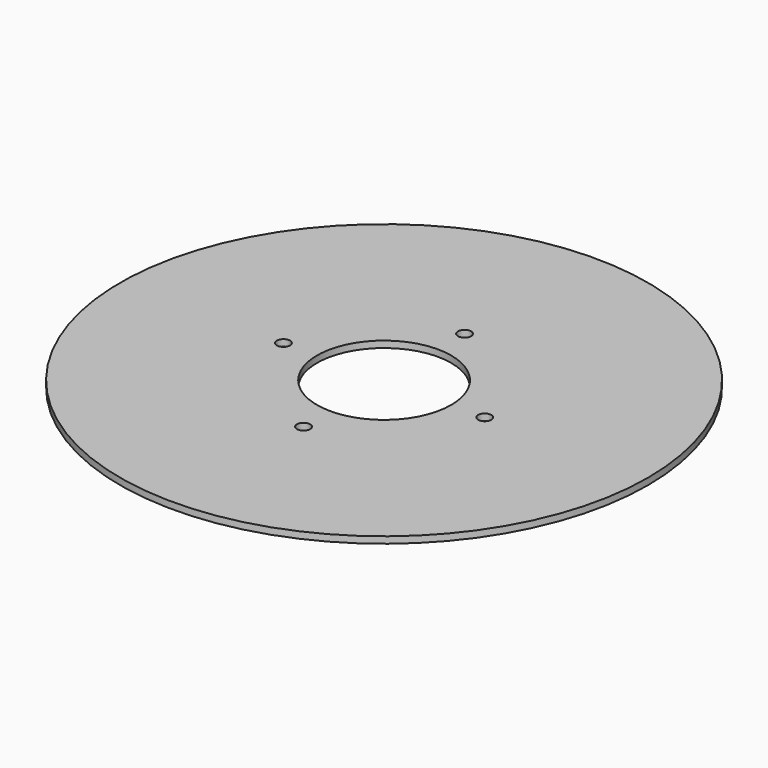
from build123d import *

# Parameters (mm, degrees)
SKETCH_R           = 120
SKETCH_R_2         = 30.5
PAD_DEPTH          = 3
SKETCH001_R        = 3
POCKET_DEPTH       = 681.850026
POLARPATTERN_COUNT = 4


with BuildPart() as part:
    # Sketch → Pad (new body)
    with BuildSketch(Plane.XY):
        Circle(SKETCH_R)
        Circle(SKETCH_R_2, mode=Mode.SUBTRACT)
    extrude(amount=PAD_DEPTH)

    # Sketch001 (on Face4 of Pad) → Pocket (cut, through all)
    with BuildSketch(Plane.XY.offset(3)):
        with Locations((0, 45.75)):
            Circle(SKETCH001_R)
    pocket = extrude(amount=-POCKET_DEPTH, mode=Mode.SUBTRACT)

    # PolarPattern: Pocket ×4 about axis
    polarpattern_axis = Axis((0, 0, 3), (0, 0, 1))
    for i in range(1, POLARPATTERN_COUNT):
        add(pocket.rotate(polarpattern_axis, i * 360 / POLARPATTERN_COUNT), mode=Mode.SUBTRACT)


solid = part.part
